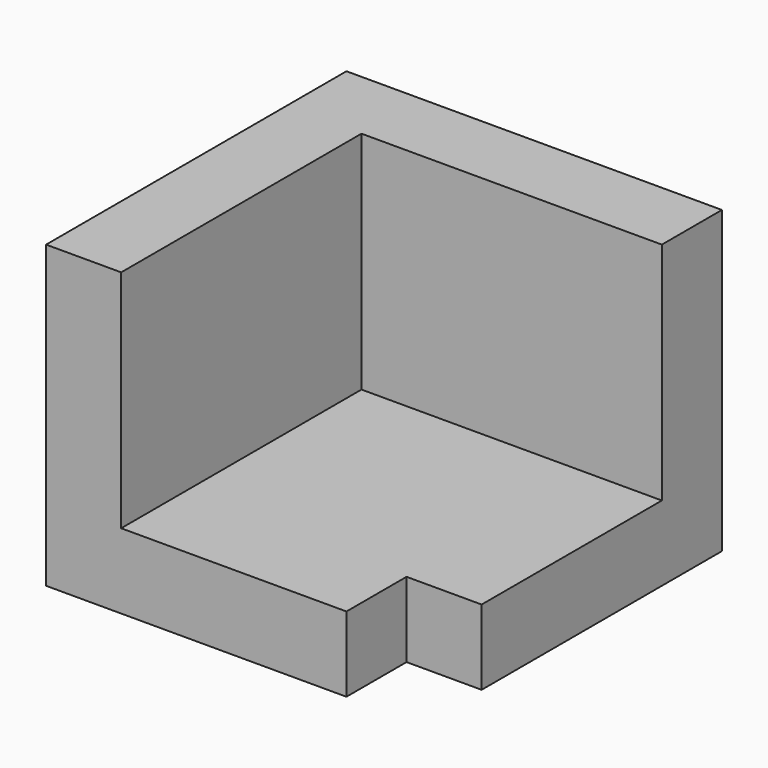
from build123d import *

# Parameters (mm, degrees)
F0_W     = 12.7
F0_H     = 50.8
F1_DEPTH = 63.5
F2_W     = 12.7
F2_H     = 50.8
F3_DEPTH = 50.8
F4_W     = 50.8
F4_H     = 12.7
F5_DEPTH = 50.8
F6_W     = 12.7
F6_H     = 12.7
F7_DEPTH = 12.7


with BuildPart() as f1:
    # F0 (on Front) → F1 (new body)
    with BuildSketch(Plane.XZ):
        with Locations((6.35, -25.4)):
            Rectangle(F0_W, F0_H)
        with Locations((6.35, -25.4)):
            Rectangle(F0_W, F0_H)
    extrude(amount=F1_DEPTH)

    # F2 (on face) → F3 (join)
    with BuildSketch(Plane.YZ.offset(12.7)):
        with Locations((-6.35, -25.4)):
            Rectangle(F2_W, F2_H)
    extrude(amount=F3_DEPTH)

    # F4 (on face) → F5 (join)
    with BuildSketch(Plane.YZ.offset(12.7)):
        with Locations((-38.1, -44.45)):
            Rectangle(F4_W, F4_H)
    extrude(amount=F5_DEPTH)

    # F6 (on face) → F7 (cut)
    with BuildSketch(Plane.XZ.offset(63.5)):
        with Locations((57.15, -44.45)):
            Rectangle(F6_W, F6_H)
    extrude(amount=-F7_DEPTH, mode=Mode.SUBTRACT)


solid = f1.part
